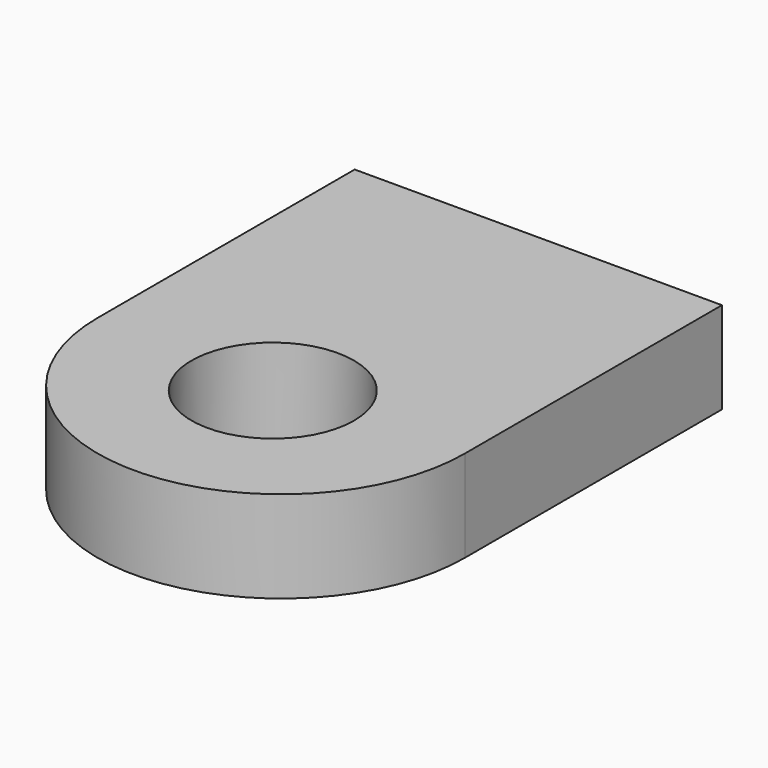
from build123d import *

# Parameters (mm, degrees)
F0_W     = 50.8
F0_H     = 44.45
F1_DEPTH = 12.7
F2_R     = 11.241868
F3_DEPTH = 12.7


with BuildPart() as f1:
    # F0 (on Top) → F1 (new body)
    with BuildSketch(Plane.XY):
        with BuildLine():
            ThreePointArc((-25.4, -22.225), (0, -47.625), (25.4, -22.225))
            Line((25.4, -22.225), (-25.4, -22.225))
        make_face()
        Rectangle(F0_W, F0_H)
    extrude(amount=F1_DEPTH)

    # F2 (on Top) → F3 (cut)
    with BuildSketch(Plane.XY):
        with Locations((0, -23.683132)):
            Circle(F2_R)
    extrude(amount=F3_DEPTH, mode=Mode.SUBTRACT)


solid = f1.part
